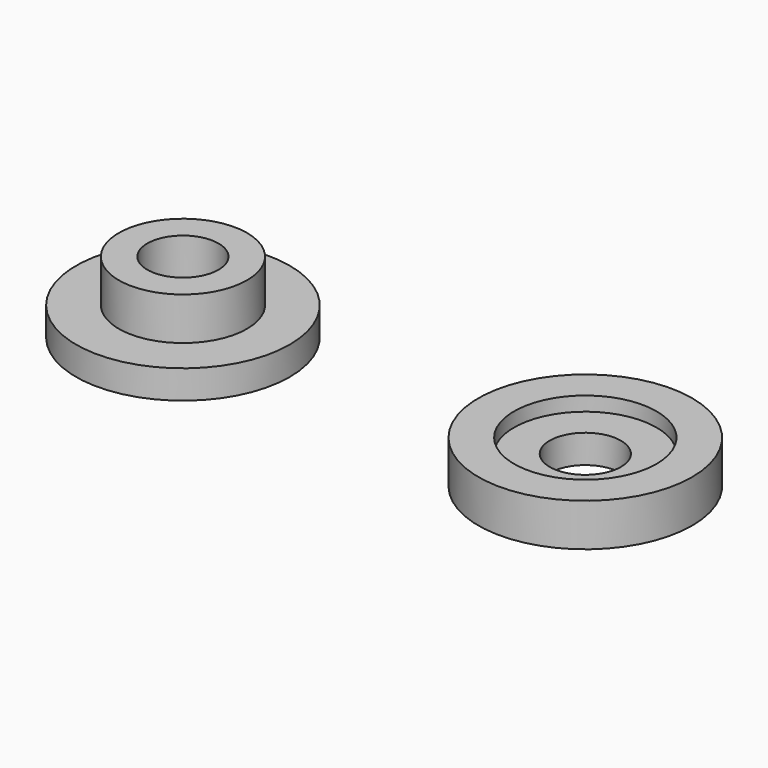
from build123d import *

# Parameters (mm, degrees)
F0_R     = 5
F0_R_2   = 2.5
F1_DEPTH = 2
F0_R_3   = 7.5
F2_DEPTH = 3
F0_R_4   = 4.5
F3_DEPTH = 5
F4_DEPTH = 2


with BuildPart() as f1:
    # F0 (on Top) → F1 (new body)
    with BuildSketch(Plane.XY):
        with Locations((28.239377, 0)):
            Circle(F0_R)
        with Locations((28.239377, 0)):
            Circle(F0_R_2, mode=Mode.SUBTRACT)
    extrude(amount=F1_DEPTH)

    # F0 (on Top) → F2 (join)
    with BuildSketch(Plane.XY):
        with Locations((28.239377, 0)):
            Circle(F0_R_3)
        with Locations((28.239377, 0)):
            Circle(F0_R, mode=Mode.SUBTRACT)
    extrude(amount=F2_DEPTH)


with BuildPart() as f3:
    # F0 (on Top) → F3 (new body)
    with BuildSketch(Plane.XY):
        Circle(F0_R_4)
        Circle(F0_R_2, mode=Mode.SUBTRACT)
    extrude(amount=F3_DEPTH)

    # F0 (on Top) → F4 (join)
    with BuildSketch(Plane.XY):
        Circle(F0_R_3)
        Circle(F0_R_4, mode=Mode.SUBTRACT)
    extrude(amount=F4_DEPTH)


solid = Compound([f1.part, f3.part])
